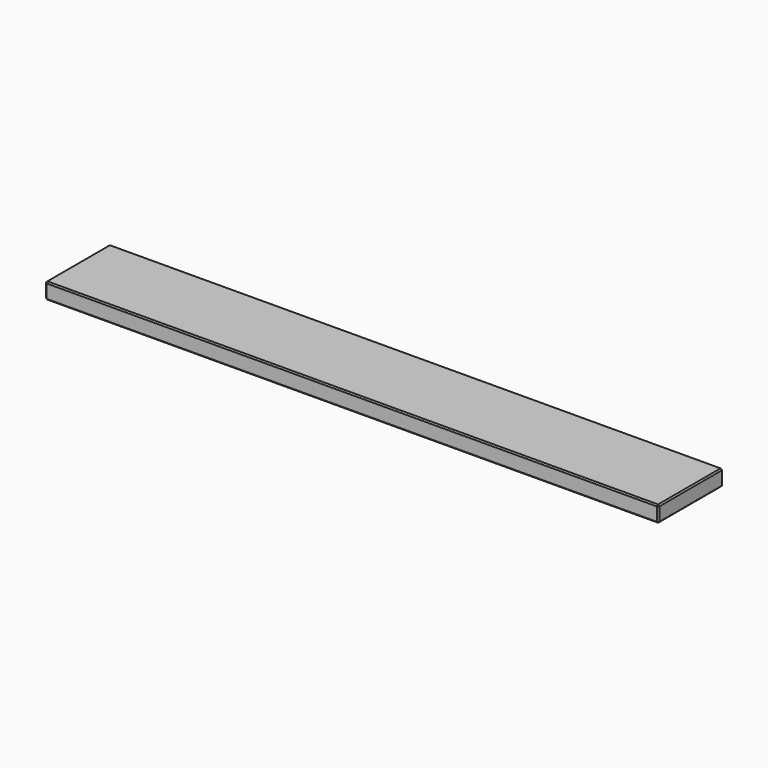
from build123d import *

# Parameters (mm, degrees)
F1_DEPTH = 63.5
F2_SIZE  = 1.016


with BuildPart() as f1:
    # F0 (on Front) → F1 (new body)
    with BuildSketch(Plane.XZ):
        Polygon((482.596909, 1.7272), (0, 0), (0.045453, -12.699919), (482.642362, -10.972719), align=None)
    extrude(amount=F1_DEPTH)

    # F2
    f2_edges = [f1.edges().sort_by_distance(p)[0] for p in [
        (482.596909, -31.75, 1.7272),
        (0, -31.75, 0),
        (241.298455, 0, 0.8636),
        (241.298455, -63.5, 0.8636),
        (0.045453, -31.75, -12.699919),
        (482.642362, -31.75, -10.972719),
        (241.343907, 0, -11.836319),
        (241.343907, -63.5, -11.836319),
        (482.619636, -63.5, -4.622759),
        (482.619636, 0, -4.622759),
        (0.022726, -63.5, -6.349959),
        (0.022726, 0, -6.349959),
    ]]
    chamfer(f2_edges, length=F2_SIZE)


solid = f1.part
